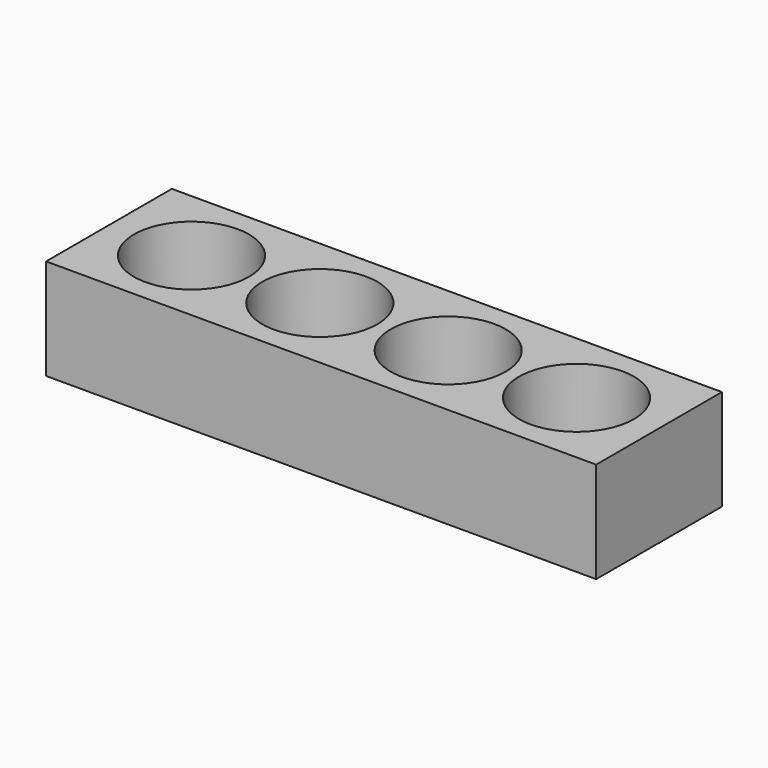
from build123d import *

# Parameters (mm, degrees)
F0_W     = 533.4
F0_H     = 152.4
F0_R     = 55.753
F1_DEPTH = 97.79
F2_R     = 7.14375
F3_DEPTH = 38.1


with BuildPart() as f1:
    # F0 (on Top) → F1 (new body)
    with BuildSketch(Plane.XY):
        with Locations((40.848458, 0)):
            Rectangle(F0_W, F0_H)
        with Locations((-145.841542, 0)):
            Circle(F0_R, mode=Mode.SUBTRACT)
        with Locations((-21.381542, 0)):
            Circle(F0_R, mode=Mode.SUBTRACT)
        with Locations((103.078458, 0)):
            Circle(F0_R, mode=Mode.SUBTRACT)
        with Locations((227.538458, 0)):
            Circle(F0_R, mode=Mode.SUBTRACT)
    extrude(amount=F1_DEPTH)

    # F2 (on face) → F3 (cut)
    with BuildSketch(Plane(origin=(0, 0, 0), x_dir=(1, 0, 0), z_dir=(0, 0, -1))):
        with Locations((-208.071542, 57.15)):
            Circle(F2_R)
        with Locations((-83.611542, 57.15)):
            Circle(F2_R)
        with Locations((-208.071542, -57.15)):
            Circle(F2_R)
        with Locations((-83.611542, -57.15)):
            Circle(F2_R)
        with Locations((40.848458, 57.15)):
            Circle(F2_R)
        with Locations((40.848458, -57.15)):
            Circle(F2_R)
        with Locations((165.308458, -57.15)):
            Circle(F2_R)
        with Locations((165.308458, 57.15)):
            Circle(F2_R)
        with Locations((289.768458, 57.15)):
            Circle(F2_R)
        with Locations((289.768458, -57.15)):
            Circle(F2_R)
    extrude(amount=-F3_DEPTH, mode=Mode.SUBTRACT)


solid = f1.part
